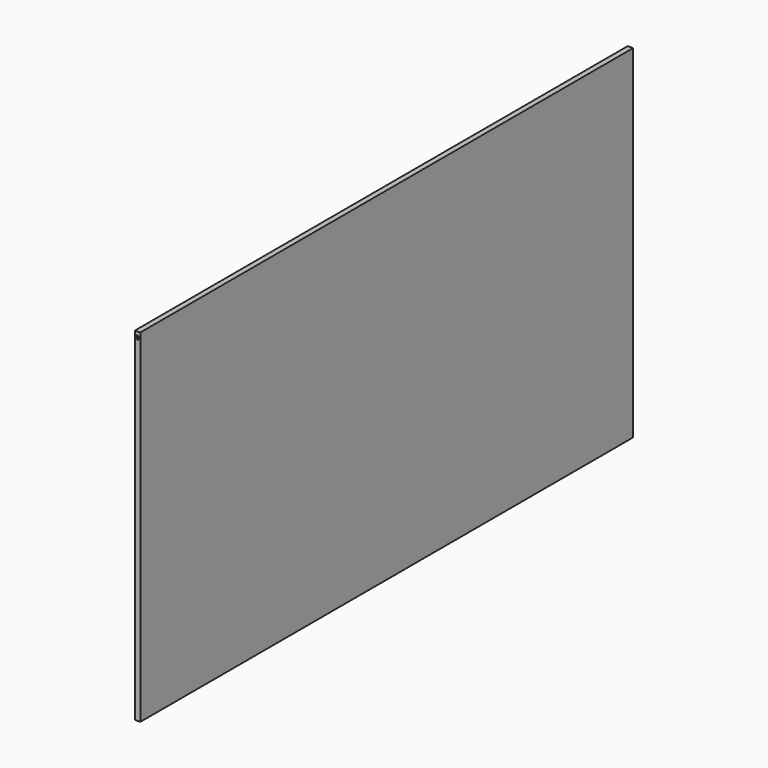
from build123d import *

# Parameters (mm, degrees)
F0_W     = 345
F0_H     = 192
F1_DEPTH = 3
F3_DEPTH = 1


with BuildPart() as f1:
    # F0 (on Right) → F1 (new body)
    with BuildSketch(Plane.YZ):
        Rectangle(F0_W, F0_H)
    extrude(amount=F1_DEPTH)

    # F2 (on face) → F3 (cut)
    with BuildSketch(Plane.XZ.offset(172.5)):
        with BuildLine():
            ThreePointArc((2.55, 93), (2.242462, 93.742462), (1.5, 94.05))
            ThreePointArc((1.5, 94.05), (0.757538, 92.257538), (2.55, 93))
        make_face()
    extrude(amount=-F3_DEPTH, mode=Mode.SUBTRACT)


solid = f1.part
